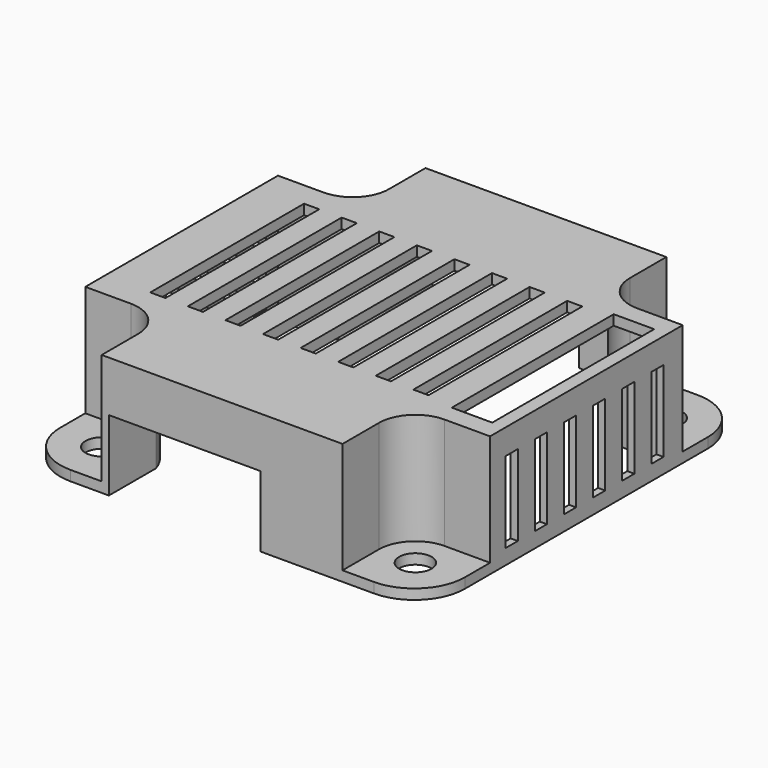
from build123d import *

# Parameters (mm, degrees)
PAD_DEPTH              = 12
POCKET_DEPTH           = 11
POCKET001_DEPTH        = 11
POLARPATTERN_COUNT     = 4
SKETCH003_R            = 1.6
POCKET002_DEPTH        = 127.655658
POLARPATTERN001_COUNT  = 4
SKETCH004_W            = 4
SKETCH004_H            = 20
POCKET003_DEPTH        = 12.001
SKETCH005_W            = 15
SKETCH005_H            = 7
POCKET004_DEPTH        = 40.001
SKETCH006_W            = 1.5
SKETCH006_H            = 8
POCKET005_DEPTH        = 40.001
LINEARPATTERN_COUNT    = 6
LINEARPATTERN_PITCH    = 3.6
SKETCH007_W            = 1.5
SKETCH007_H            = 19
POCKET006_DEPTH        = 12.001
LINEARPATTERN001_COUNT = 8
LINEARPATTERN001_PITCH = 3.714286


with BuildPart() as part:
    # Sketch → Pad (new body)
    with BuildSketch(Plane.XY):
        with BuildLine():
            Line((-15, 20), (15, 20))
            ThreePointArc((20, 15), (18.535534, 18.535534), (15, 20))
            Line((20, 15), (20, -15))
            ThreePointArc((15, -20), (18.535534, -18.535534), (20, -15))
            Line((15, -20), (-15, -20))
            ThreePointArc((-20, -15), (-18.535534, -18.535534), (-15, -20))
            Line((-20, -15), (-20, 15))
            ThreePointArc((-15, 20), (-18.535534, 18.535534), (-20, 15))
        make_face()
    extrude(amount=PAD_DEPTH)

    # Sketch001 (on Face9 of Pad) → Pocket (cut)
    with BuildSketch(Plane(origin=(0, 0, 0), x_dir=(1, 0, 0), z_dir=(0, 0, -1))):
        with BuildLine():
            ThreePointArc((-15.5, 11), (-12.318019, 12.318019), (-11, 15.5))
            Line((-11, 15.5), (-11, 19.3))
            Line((-11, 19.3), (11, 19.3))
            Line((11, 19.3), (11, 15.5))
            ThreePointArc((11, 15.5), (12.318019, 12.318019), (15.5, 11))
            Line((15.5, 11), (19.3, 11))
            Line((19.3, 11), (19.3, -11))
            Line((19.3, -11), (15.5, -11))
            ThreePointArc((15.5, -11), (12.318019, -12.318019), (11, -15.5))
            Line((11, -15.5), (11, -19.3))
            Line((-11, -19.3), (11, -19.3))
            Line((-11, -15.5), (-11, -19.3))
            ThreePointArc((-11, -15.5), (-12.318019, -12.318019), (-15.5, -11))
            Line((-19.3, -11), (-15.5, -11))
            Line((-19.3, 11), (-19.3, -11))
            Line((-19.3, 11), (-15.5, 11))
        make_face()
    extrude(amount=-POCKET_DEPTH, mode=Mode.SUBTRACT)

    # Sketch002 (on Face5 of Pocket) → Pocket001 (cut)
    with BuildSketch(Plane.XY.offset(12)):
        with BuildLine():
            ThreePointArc((-15.5, 11.9), (-12.954416, 12.954416), (-11.9, 15.5))
            Line((-11.9, 20.654364), (-11.9, 15.5))
            Line((-20.945524, 20.654364), (-11.9, 20.654364))
            Line((-20.945524, 11.9), (-20.945524, 20.654364))
            Line((-15.5, 11.9), (-20.945524, 11.9))
        make_face()
    pocket001 = extrude(amount=-POCKET001_DEPTH, mode=Mode.SUBTRACT)

    # PolarPattern: Pocket001 ×4 about axis
    polarpattern_axis = Axis((0, 0, 12), (0, 0, 1))
    for i in range(1, POLARPATTERN_COUNT):
        add(pocket001.rotate(polarpattern_axis, i * 360 / POLARPATTERN_COUNT), mode=Mode.SUBTRACT)

    # Sketch003 (on Face2 of PolarPattern) → Pocket002 (cut, through all)
    with BuildSketch(Plane(origin=(0, 0, 0), x_dir=(1, 0, 0), z_dir=(0, 0, -1))):
        with Locations((-15.5, 15.5)):
            Circle(SKETCH003_R)
    pocket002 = extrude(amount=-POCKET002_DEPTH, mode=Mode.SUBTRACT)

    # PolarPattern001: Pocket002 ×4 about axis
    polarpattern001_axis = Axis((0, 0, 0), (0, 0, -1))
    for i in range(1, POLARPATTERN001_COUNT):
        add(pocket002.rotate(polarpattern001_axis, i * 360 / POLARPATTERN001_COUNT), mode=Mode.SUBTRACT)

    # Sketch004 (on Face6 of PolarPattern001) → Pocket003 (cut, through all)
    with BuildSketch(Plane.XY.offset(12)):
        with Locations((16.7, 0)):
            Rectangle(SKETCH004_W, SKETCH004_H)
    extrude(amount=-POCKET003_DEPTH, mode=Mode.SUBTRACT)

    # Sketch005 (on Face10 of Pocket003) → Pocket004 (cut, through all)
    with BuildSketch(Plane.XZ.offset(20)):
        with Locations((-3.689, 3.5)):
            Rectangle(SKETCH005_W, SKETCH005_H)
    extrude(amount=-POCKET004_DEPTH, mode=Mode.SUBTRACT)

    # Sketch006 (on Face31 of Pocket004) → Pocket005 (cut, through all)
    with BuildSketch(Plane.YZ.offset(20)):
        with Locations((-9.225517, 5.5)):
            Rectangle(SKETCH006_W, SKETCH006_H)
    pocket005 = extrude(amount=-POCKET005_DEPTH, mode=Mode.SUBTRACT)

    # LinearPattern: Pocket005 ×6
    with Locations(*[(0, i * LINEARPATTERN_PITCH, 0) for i in range(1, LINEARPATTERN_COUNT)]):
        add(pocket005, mode=Mode.SUBTRACT)

    # Sketch007 (on Face9 of LinearPattern) → Pocket006 (cut, through all)
    with BuildSketch(Plane.XY.offset(12)):
        with Locations((-14.75, 0)):
            Rectangle(SKETCH007_W, SKETCH007_H)
    pocket006 = extrude(amount=-POCKET006_DEPTH, mode=Mode.SUBTRACT)

    # LinearPattern001: Pocket006 ×8
    with Locations(*[(i * LINEARPATTERN001_PITCH, 0, 0) for i in range(1, LINEARPATTERN001_COUNT)]):
        add(pocket006, mode=Mode.SUBTRACT)


solid = part.part
